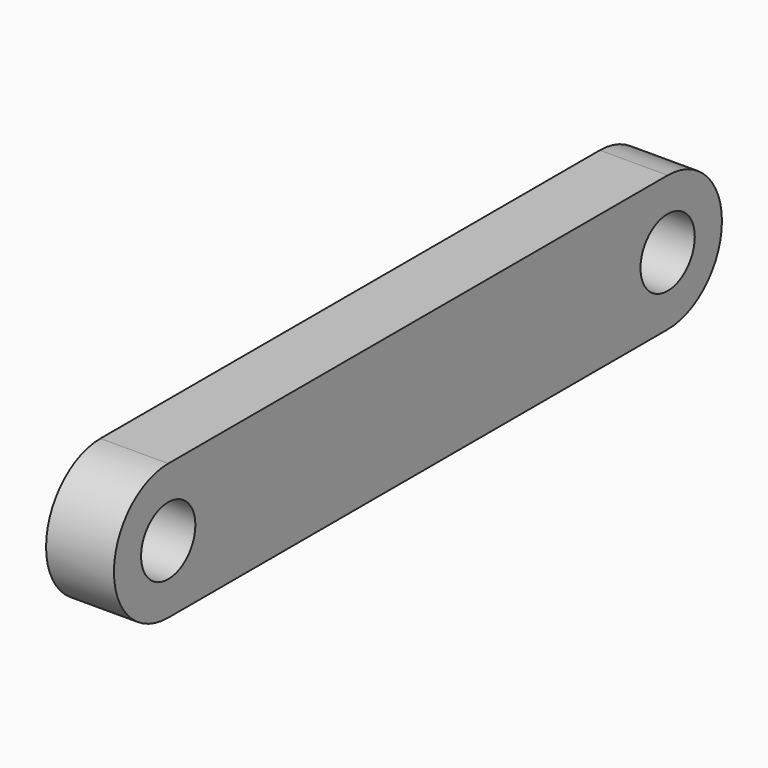
from build123d import *

# Parameters (mm, degrees)
F0_R     = 3.175
F1_DEPTH = 6.35


with BuildPart() as f1:
    # F0 (on Right) → F1 (new body)
    with BuildSketch(Plane.YZ):
        with BuildLine():
            Line((30.929195, 6.662577), (-27.490805, 6.662577))
            ThreePointArc((-27.490805, 6.662577), (-33.840805, 0.312577), (-27.490805, -6.037423))
            Line((-27.490805, -6.037423), (30.929195, -6.037423))
            ThreePointArc((30.929195, -6.037423), (37.279195, 0.312577), (30.929195, 6.662577))
        make_face()
        with Locations((-27.490805, 0.312577)):
            Circle(F0_R, mode=Mode.SUBTRACT)
        with Locations((30.929195, 0.312577)):
            Circle(F0_R, mode=Mode.SUBTRACT)
    extrude(amount=F1_DEPTH)


solid = f1.part
